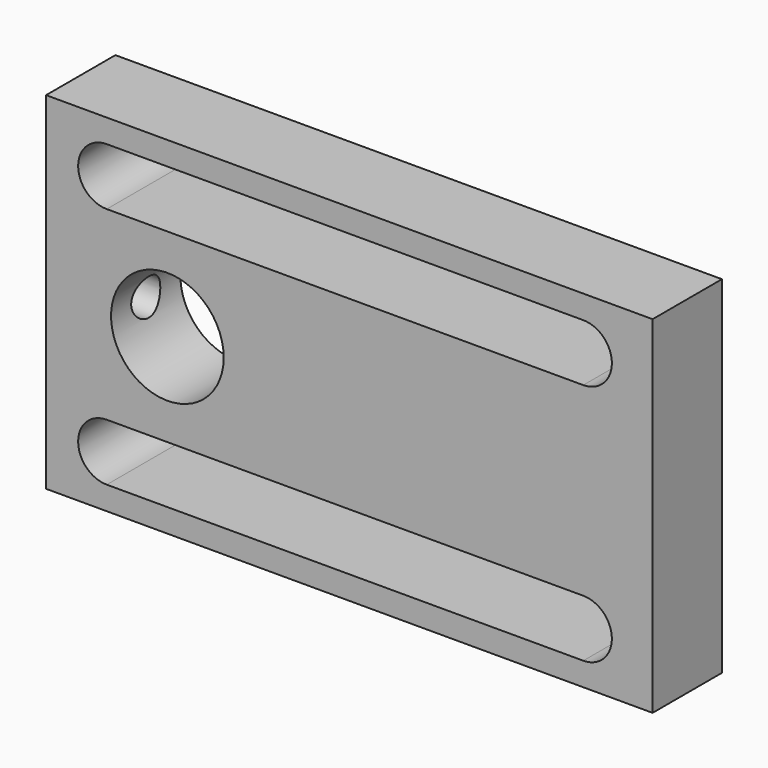
from build123d import *

# Parameters (mm, degrees)
F0_W     = 70
F0_H     = 40
F1_DEPTH = 10
F2_R     = 6.5
F3_DEPTH = 25
F5_D     = 4.2
F5_DEPTH = 15
F5_TIP   = 1.2618073


with BuildPart() as f1:
    # F0 (on Front) → F1 (new body)
    with BuildSketch(Plane.XZ):
        with Locations((35, 20)):
            Rectangle(F0_W, F0_H)
    extrude(amount=F1_DEPTH)

    # F2 (on face) → F3 (cut)
    with BuildSketch(Plane.XZ.offset(10)):
        with BuildLine():
            Line((62, 30.7), (62, 37.3))
            ThreePointArc((62, 37.3), (58.7, 34), (62, 30.7))
        make_face()
        with BuildLine():
            ThreePointArc((62, 30.7), (64.3334523779, 31.6665476221), (65.3, 34))
            ThreePointArc((65.3, 34), (64.3334523779, 36.3334523779), (62, 37.3))
            Line((62, 37.3), (62, 30.7))
        make_face()
        with BuildLine():
            ThreePointArc((10.3, 34), (9.3334523779, 36.3334523779), (7, 37.3))
            ThreePointArc((7, 37.3), (3.7, 34), (7, 30.7))
            ThreePointArc((7, 30.7), (9.3334523779, 31.6665476221), (10.3, 34))
        make_face()
        with BuildLine():
            ThreePointArc((7, 2.7), (9.3334523779, 3.6665476221), (10.3, 6))
            ThreePointArc((10.3, 6), (9.3334523779, 8.3334523779), (7, 9.3))
            ThreePointArc((7, 9.3), (3.7, 6), (7, 2.7))
        make_face()
        with BuildLine():
            Line((62, 2.7), (62, 9.3))
            ThreePointArc((62, 9.3), (58.7, 6), (62, 2.7))
        make_face()
        with BuildLine():
            ThreePointArc((65.3, 6), (64.3334523779, 8.3334523779), (62, 9.3))
            Line((62, 9.3), (62, 2.7))
            ThreePointArc((62, 2.7), (64.3334523779, 3.6665476221), (65.3, 6))
        make_face()
        with BuildLine():
            ThreePointArc((62, 30.7), (58.7, 34), (62, 37.3))
            Line((62, 37.3), (7, 37.3))
            ThreePointArc((7, 37.3), (9.3334523779, 36.3334523779), (10.3, 34))
            ThreePointArc((10.3, 34), (9.3334523779, 31.6665476221), (7, 30.7))
            Line((7, 30.7), (62, 30.7))
        make_face()
        with BuildLine():
            ThreePointArc((7, 9.3), (9.3334523779, 8.3334523779), (10.3, 6))
            ThreePointArc((10.3, 6), (9.3334523779, 3.6665476221), (7, 2.7))
            Line((7, 2.7), (62, 2.7))
            ThreePointArc((62, 2.7), (58.7, 6), (62, 9.3))
            Line((62, 9.3), (7, 9.3))
        make_face()
        with Locations((14, 20)):
            Circle(F2_R)
    extrude(amount=-F3_DEPTH, mode=Mode.SUBTRACT)

    # F5
    with Locations(Plane(origin=(0, 0, 0), x_dir=(0, -1, 0), z_dir=(-1, 0, 0))):
        with Locations((5, 20)):
            Hole(F5_D / 2, depth=F5_DEPTH)
            with Locations((0, 0, -(F5_DEPTH + F5_TIP / 2))):  # 118° drill point
                Cone(0, F5_D / 2, F5_TIP, mode=Mode.SUBTRACT)


solid = f1.part
